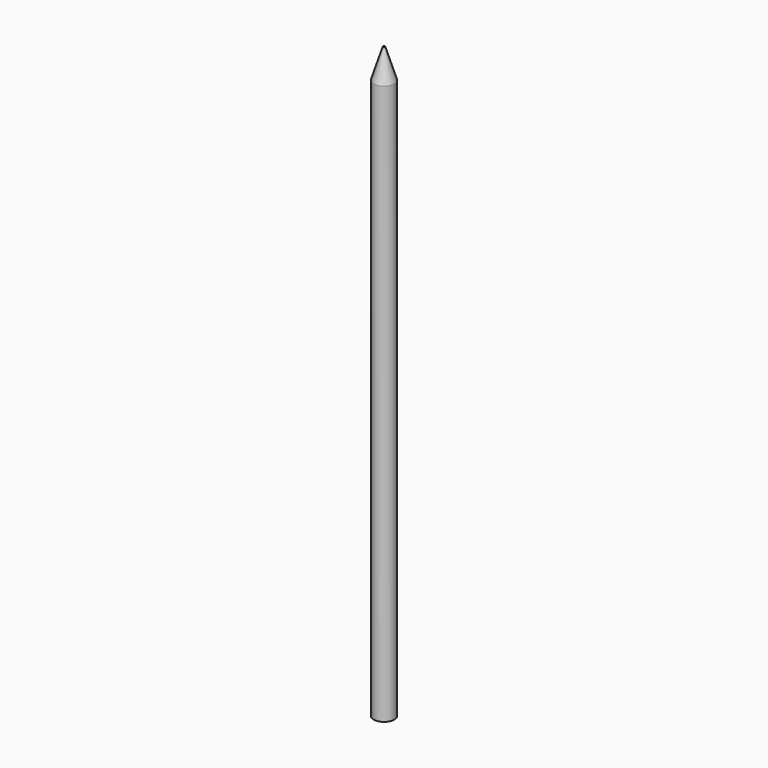
from build123d import *

# Parameters (mm, degrees)
F0_R      = 3.5
F1_DEPTH  = 190
F3_R      = 0.35
F1_FACE_R = 3.5


with BuildPart() as f1:
    # F0 (on Top) → F1 (new body)
    with BuildSketch(Plane.XY):
        with Locations((-31.1632249504, 30.6147821248)):
            Circle(F0_R)
    extrude(amount=F1_DEPTH)

    # F3 (on offset) → F4 section 0
    with BuildSketch(Plane.XY.offset(200)):
        with Locations((-31.1632249504, 30.6147821248)):
            Circle(F3_R)
    # F1_face (on face) → F4 section 1
    with BuildSketch(Plane(origin=(-31.1632249504, 30.6147821248, 190), x_dir=(1, 0, 0), z_dir=(0, 0, 1))):
        Circle(F1_FACE_R)
    loft()


solid = f1.part
